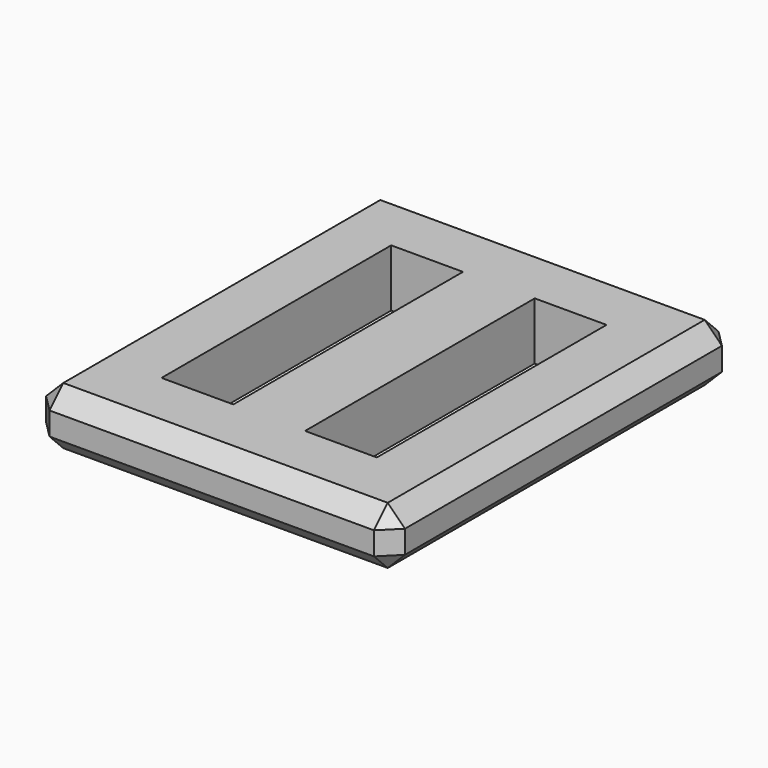
from build123d import *

# Parameters (mm, degrees)
F0_W     = 25
F0_H     = 30
F0_W_2   = 5
F0_H_2   = 20
F1_DEPTH = 4
F2_SIZE  = 1.2


with BuildPart() as f1:
    # F0 (on Top) → F1 (new body)
    with BuildSketch(Plane.XY):
        with Locations((12.5, 15)):
            Rectangle(F0_W, F0_H)
        with Locations((7.5, 15)):
            Rectangle(F0_W_2, F0_H_2, mode=Mode.SUBTRACT)
        with Locations((17.5, 15)):
            Rectangle(F0_W_2, F0_H_2, mode=Mode.SUBTRACT)
    extrude(amount=F1_DEPTH)

    # F2
    f2_edges = [f1.edges().sort_by_distance(p)[0] for p in [
        (12.5, 30, 4),
        (25, 15, 4),
        (12.5, 0, 4),
        (0, 15, 4),
        (25, 15, 0),
        (12.5, 30, 0),
        (12.5, 0, 0),
        (0, 15, 0),
        (25, 30, 2),
        (25, 0, 2),
        (0, 30, 2),
        (0, 0, 2),
    ]]
    chamfer(f2_edges, length=F2_SIZE)


solid = f1.part
